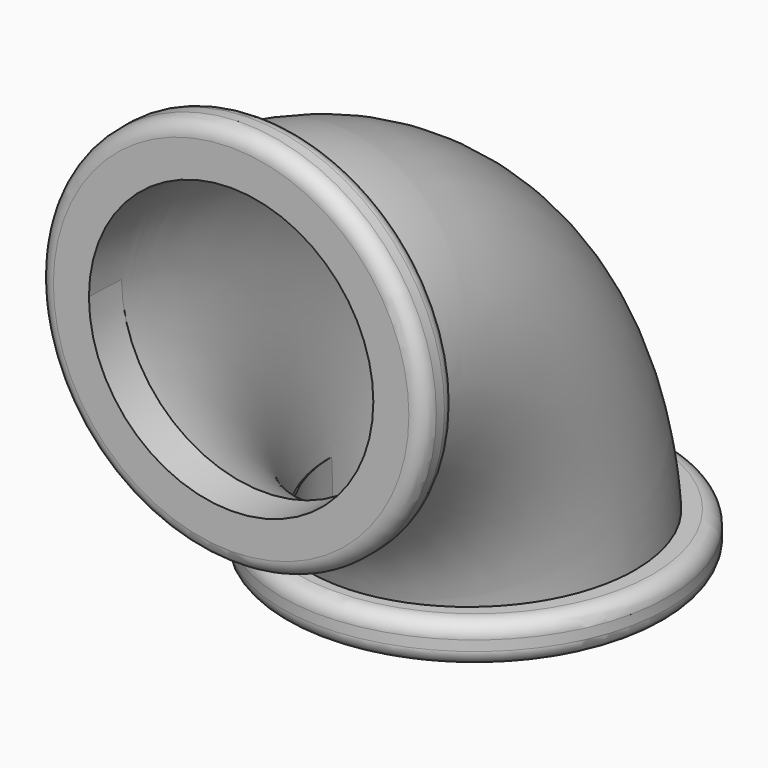
from build123d import *

# Parameters (mm, degrees)
F1_R     = 16
F1_R_2   = 14
F3_R     = 19
F3_R_2   = 14
F4_DEPTH = 4
F5_R     = 19
F5_R_2   = 14
F6_DEPTH = 4
F7_R     = 1.5


with BuildPart() as f2:
    # F2: sweep along a path in F0
    with BuildLine(Plane.YZ) as f2_path:
        ThreePointArc((0, 30), (21.213203, 21.213203), (30, 0))
    # F1 (on Top) → F2 (sweep)
    with BuildSketch(Plane.XY):
        with Locations((0, 30)):
            Circle(F1_R)
        with Locations((0, 30)):
            Circle(F1_R_2, mode=Mode.SUBTRACT)
    sweep(path=f2_path.line)

    # F3 (on Front) → F4 (join)
    with BuildSketch(Plane.XZ):
        with Locations((0, 30)):
            Circle(F3_R)
        with Locations((0, 30)):
            Circle(F3_R_2, mode=Mode.SUBTRACT)
    extrude(amount=-F4_DEPTH)

    # F5 (on Top) → F6 (join)
    with BuildSketch(Plane.XY):
        with Locations((0, 30)):
            Circle(F5_R)
        with Locations((0, 30)):
            Circle(F5_R_2, mode=Mode.SUBTRACT)
    extrude(amount=F6_DEPTH)

    # F7
    f7_edges = [f2.edges().sort_by_distance(p)[0] for p in [
        (-19, 4, 30),
        (-19, 0, 30),
        (-19, 30, 4),
        (-19, 30, 0),
    ]]
    fillet(f7_edges, radius=F7_R)


solid = f2.part
